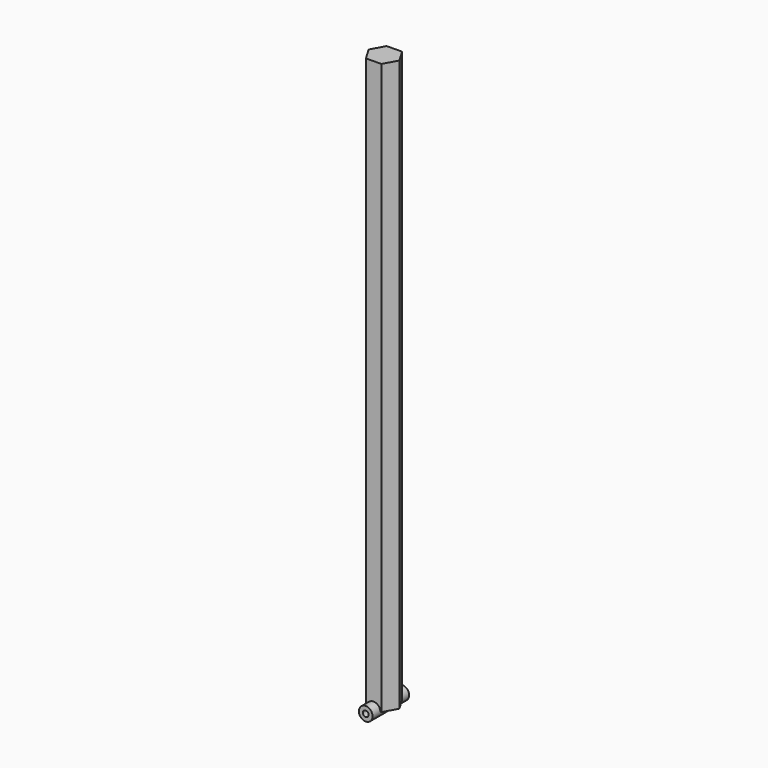
from build123d import *

# Parameters (mm, degrees)
F0_R     = 60
F0_R_2   = 25
F1_DEPTH = 200
F3_DEPTH = 5000


with BuildPart() as f1:
    # F0 (on Front) → F1 (new body, symmetric)
    with BuildSketch(Plane.XZ):
        Circle(F0_R)
        Circle(F0_R_2, mode=Mode.SUBTRACT)
    extrude(amount=F1_DEPTH, both=True)

    # F2 (on Top) → F3 (join)
    with BuildSketch(Plane.XY):
        Polygon((133.467978, 2.179112), (64.846823, 116.676216), (-68.621155, 114.497104), (-133.467978, -2.179112), (-64.846823, -116.676216), (68.621155, -114.497104), align=None)
    extrude(amount=F3_DEPTH)


solid = f1.part
